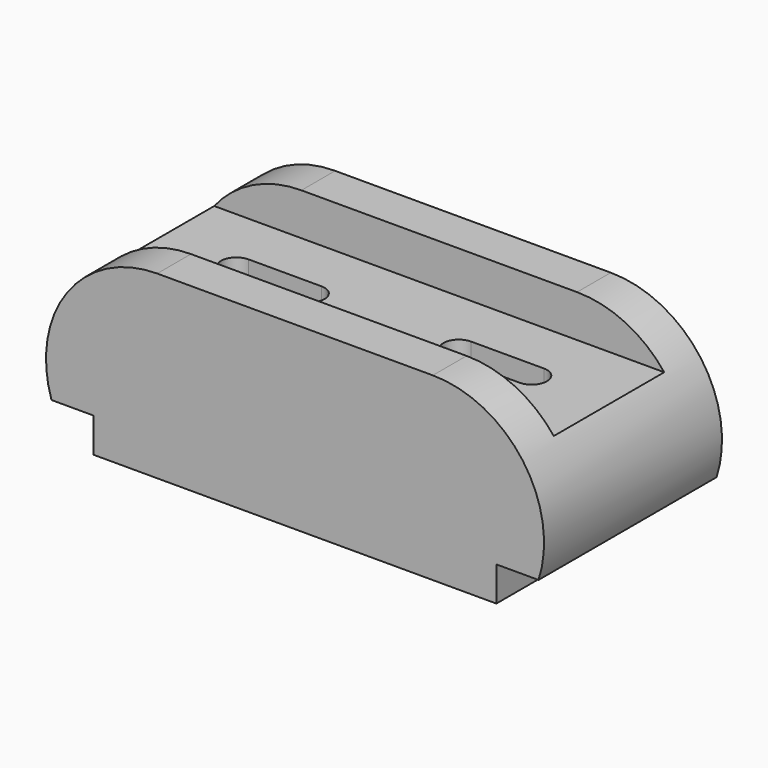
from build123d import *

# Parameters (mm, degrees)
F1_DEPTH = 29
F2_W     = 36
F2_H     = 11
F3_DEPTH = 63.5
F5_DEPTH = 50


with BuildPart() as f1:
    # F0 (on Front) → F1 (new body, symmetric)
    with BuildSketch(Plane.XZ):
        with BuildLine():
            Line((-51.498091, 9), (-51.498091, 0))
            Line((-51.498091, 0), (53.501909, 0))
            Line((53.501909, 0), (53.501909, 9))
            Line((53.501909, 9), (64.501909, 9))
            ThreePointArc((64.501909, 9), (60.407201, 35.029386), (36.933812, 47))
            Line((36.933812, 47), (-34.929993, 47))
            ThreePointArc((-34.929993, 47), (-58.403383, 35.029386), (-62.498091, 9))
            Line((-62.498091, 9), (-51.498091, 9))
        make_face()
    extrude(amount=F1_DEPTH, both=True)

    # F2 (on Right) → F3 (cut, symmetric)
    with BuildSketch(Plane.YZ):
        with Locations((0, 41.5)):
            Rectangle(F2_W, F2_H)
    extrude(amount=F3_DEPTH, both=True, mode=Mode.SUBTRACT)

    # F4 (on Top) → F5 (cut, symmetric)
    with BuildSketch(Plane.XY):
        with BuildLine():
            Line((-18.498091, 4), (-37.498091, 4))
            ThreePointArc((-37.498091, 4), (-41.498091, 0), (-37.498091, -4))
            Line((-37.498091, -4), (-18.498091, -4))
            ThreePointArc((-18.498091, -4), (-14.498091, 0), (-18.498091, 4))
        make_face()
        with BuildLine():
            Line((20.501909, -4), (39.501909, -4))
            ThreePointArc((39.501909, -4), (43.501909, 0), (39.501909, 4))
            Line((39.501909, 4), (20.501909, 4))
            ThreePointArc((20.501909, 4), (16.501909, 0), (20.501909, -4))
        make_face()
    extrude(amount=F5_DEPTH, both=True, mode=Mode.SUBTRACT)


solid = f1.part
